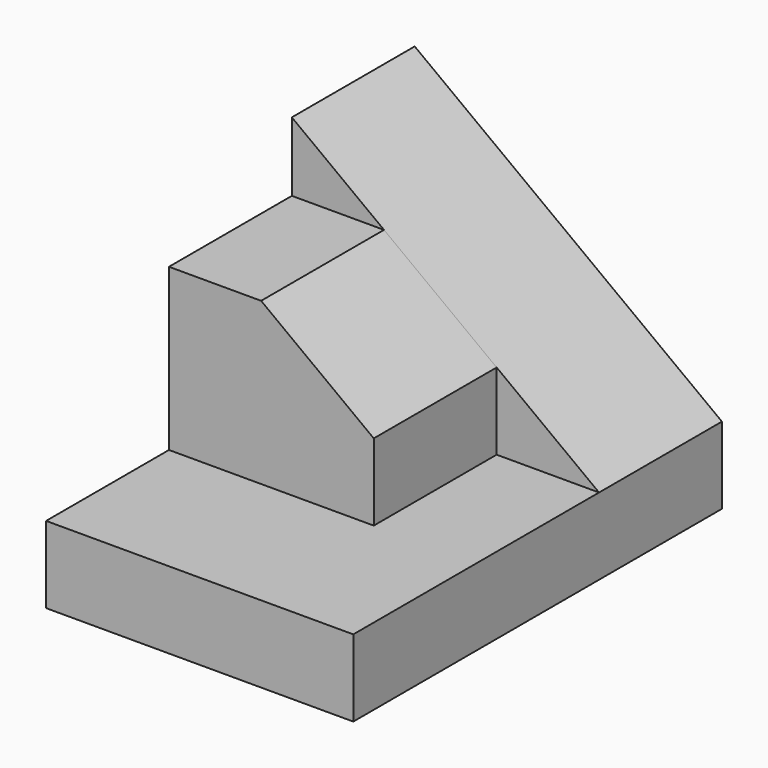
from build123d import *

# Parameters (mm, degrees)
F0_W     = 25.4
F0_H     = 6.35
F1_DEPTH = 38.1
F3_DEPTH = 12.7
F5_DEPTH = 12.7


with BuildPart() as f1:
    # F0 (on Front) → F1 (new body)
    with BuildSketch(Plane.XZ):
        with Locations((12.7, 3.175)):
            Rectangle(F0_W, F0_H)
    extrude(amount=F1_DEPTH)

    # F2 (on Front) → F3 (join)
    with BuildSketch(Plane.XZ):
        Polygon((0, 6.35), (25.4, 6.35), (0, 25.4), align=None)
    extrude(amount=F3_DEPTH)

    # F4 (on face) → F5 (join)
    with BuildSketch(Plane.XZ.offset(12.7)):
        Polygon((0, 19.685), (0, 6.35), (16.933333, 6.35), (16.933333, 12.7), (7.62, 19.685), align=None)
    extrude(amount=F5_DEPTH)


solid = f1.part
